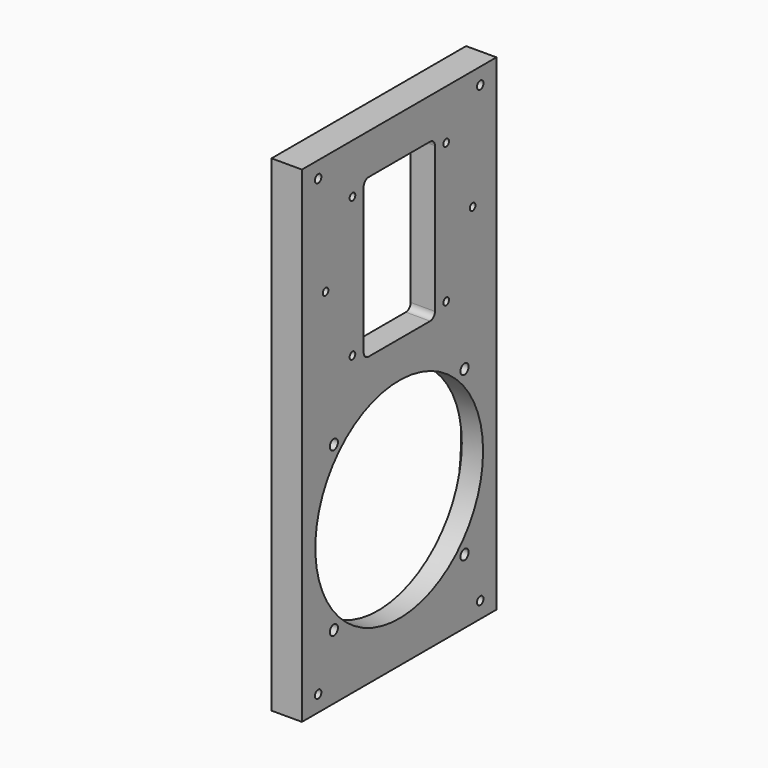
from build123d import *

# Parameters (mm, degrees)
F0_W     = 120
F0_H     = 240
F0_R     = 2
F0_R_2   = 50.25
F1_DEPTH = 15
F0_R_3   = 1.75
F2_DEPTH = 12
F0_R_4   = 2.5
F0_R_5   = 51.75
F3_DEPTH = 10.5


with BuildPart() as f1:
    # F0 (on Right) → F1 (new body)
    with BuildSketch(Plane.YZ):
        with Locations((0, -1.592548)):
            Rectangle(F0_W, F0_H)
        with Locations((-49.999997, -113.592548)):
            Circle(F0_R, mode=Mode.SUBTRACT)
        with BuildLine():
            ThreePointArc((-43.965421, -1.013646), (0, 7.657452), (43.965421, -1.013646))
            ThreePointArc((43.965421, -1.013646), (46.58482, -2.757728), (48.328902, -5.377127))
            ThreePointArc((48.328902, -5.377127), (57, -49.342548), (48.328902, -93.307969))
            ThreePointArc((48.328902, -93.307969), (46.58482, -95.927368), (43.965421, -97.67145))
            ThreePointArc((43.965421, -97.67145), (0, -106.342548), (-43.965421, -97.67145))
            ThreePointArc((-43.965421, -97.67145), (-46.58482, -95.927368), (-48.328902, -93.307969))
            ThreePointArc((-48.328902, -93.307969), (-57, -49.342548), (-48.328902, -5.377127))
            ThreePointArc((-48.328902, -5.377127), (-46.58482, -2.757728), (-43.965421, -1.013646))
        make_face(mode=Mode.SUBTRACT)
        with Locations((50.000003, -113.592548)):
            Circle(F0_R, mode=Mode.SUBTRACT)
        with Locations((-49.999997, 110.407452)):
            Circle(F0_R, mode=Mode.SUBTRACT)
        with Locations((0.079908, 59.407452)):
            Circle(F0_R_2, mode=Mode.SUBTRACT)
        with Locations((50.000003, 110.407455)):
            Circle(F0_R, mode=Mode.SUBTRACT)
        with Locations((0, -1.592548)):
            Rectangle(F0_W, F0_H)
        with Locations((-49.999997, -113.592548)):
            Circle(F0_R, mode=Mode.SUBTRACT)
        with BuildLine():
            ThreePointArc((-43.965421, -1.013646), (0, 7.657452), (43.965421, -1.013646))
            ThreePointArc((43.965421, -1.013646), (46.58482, -2.757728), (48.328902, -5.377127))
            ThreePointArc((48.328902, -5.377127), (57, -49.342548), (48.328902, -93.307969))
            ThreePointArc((48.328902, -93.307969), (46.58482, -95.927368), (43.965421, -97.67145))
            ThreePointArc((43.965421, -97.67145), (0, -106.342548), (-43.965421, -97.67145))
            ThreePointArc((-43.965421, -97.67145), (-46.58482, -95.927368), (-48.328902, -93.307969))
            ThreePointArc((-48.328902, -93.307969), (-57, -49.342548), (-48.328902, -5.377127))
            ThreePointArc((-48.328902, -5.377127), (-46.58482, -2.757728), (-43.965421, -1.013646))
        make_face(mode=Mode.SUBTRACT)
        with Locations((50.000003, -113.592548)):
            Circle(F0_R, mode=Mode.SUBTRACT)
        with Locations((-49.999997, 110.407452)):
            Circle(F0_R, mode=Mode.SUBTRACT)
        with Locations((0.079908, 59.407452)):
            Circle(F0_R_2, mode=Mode.SUBTRACT)
        with Locations((50.000003, 110.407455)):
            Circle(F0_R, mode=Mode.SUBTRACT)
    extrude(amount=-F1_DEPTH)

    # F0 (on Right) → F2 (join)
    with BuildSketch(Plane.YZ):
        with Locations((0.079908, 59.407452)):
            Circle(F0_R_2)
        with Locations((-28.845534, 24.935452)):
            Circle(F0_R_3, mode=Mode.SUBTRACT)
        with Locations((-45.415495, 59.40745)):
            Circle(F0_R_3, mode=Mode.SUBTRACT)
        with Locations((-28.845534, 93.879452)):
            Circle(F0_R_3, mode=Mode.SUBTRACT)
        with Locations((29.005351, 24.935452)):
            Circle(F0_R_3, mode=Mode.SUBTRACT)
        with BuildLine():
            Line((-18.920092, 98.407452), (19.079908, 98.407452))
            ThreePointArc((19.079908, 98.407452), (21.201229, 97.528772), (22.079908, 95.407452))
            Line((22.079908, 95.407452), (22.079908, 23.407452))
            ThreePointArc((22.079908, 23.407452), (21.201229, 21.286132), (19.079908, 20.407452))
            Line((19.079908, 20.407452), (-18.920092, 20.407452))
            ThreePointArc((-18.920092, 20.407452), (-21.041412, 21.286132), (-21.920092, 23.407452))
            Line((-21.920092, 23.407452), (-21.920092, 95.407452))
            ThreePointArc((-21.920092, 95.407452), (-21.041412, 97.528772), (-18.920092, 98.407452))
        make_face(mode=Mode.SUBTRACT)
        with Locations((29.005351, 93.879452)):
            Circle(F0_R_3, mode=Mode.SUBTRACT)
        with Locations((45.292415, 59.40745)):
            Circle(F0_R_3, mode=Mode.SUBTRACT)
    extrude(amount=-F2_DEPTH)

    # F0 (on Right) → F3 (join)
    with BuildSketch(Plane.YZ):
        with BuildLine():
            ThreePointArc((48.328902, -5.377127), (46.58482, -2.757728), (43.965421, -1.013646))
            ThreePointArc((43.965421, -1.013646), (0, 7.657452), (-43.965421, -1.013646))
            ThreePointArc((-43.965421, -1.013646), (-46.58482, -2.757728), (-48.328902, -5.377127))
            ThreePointArc((-48.328902, -5.377127), (-57, -49.342548), (-48.328902, -93.307969))
            ThreePointArc((-48.328902, -93.307969), (-46.58482, -95.927368), (-43.965421, -97.67145))
            ThreePointArc((-43.965421, -97.67145), (0, -106.342548), (43.965421, -97.67145))
            ThreePointArc((43.965421, -97.67145), (46.58482, -95.927368), (48.328902, -93.307969))
            ThreePointArc((48.328902, -93.307969), (57, -49.342548), (48.328902, -5.377127))
        make_face()
        with Locations((-40.305087, -89.647635)):
            Circle(F0_R_4, mode=Mode.SUBTRACT)
        with Locations((-40.305087, -9.037462)):
            Circle(F0_R_4, mode=Mode.SUBTRACT)
        with Locations((40.305087, -89.647635)):
            Circle(F0_R_4, mode=Mode.SUBTRACT)
        with Locations((0, -49.342548)):
            Circle(F0_R_5, mode=Mode.SUBTRACT)
        with Locations((40.305087, -9.037462)):
            Circle(F0_R_4, mode=Mode.SUBTRACT)
    extrude(amount=-F3_DEPTH)


solid = f1.part
